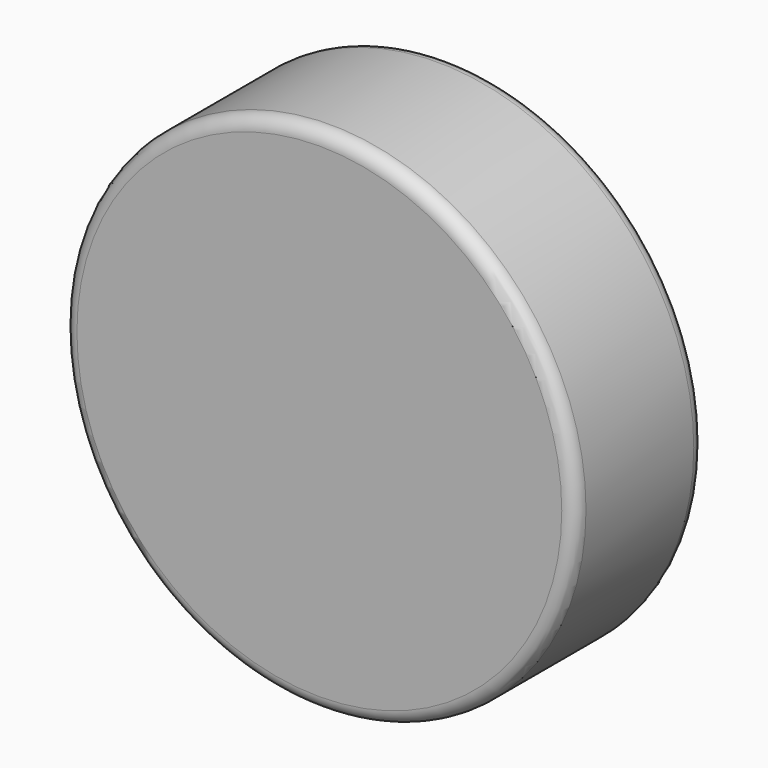
from build123d import *

# Parameters (mm, degrees)
F0_R     = 9.5
F1_DEPTH = 6
F2_R     = 0.5


with BuildPart() as f1:
    # F0 (on Front) → F1 (new body)
    with BuildSketch(Plane.XZ):
        Circle(F0_R)
    extrude(amount=F1_DEPTH)

    # F2
    f2_edges = [f1.edges().sort_by_distance(p)[0] for p in [
        (-9.5, -6, 0),
        (9.5, -3, 0),
        (-9.5, 0, 0),
    ]]
    fillet(f2_edges, radius=F2_R)


solid = f1.part
